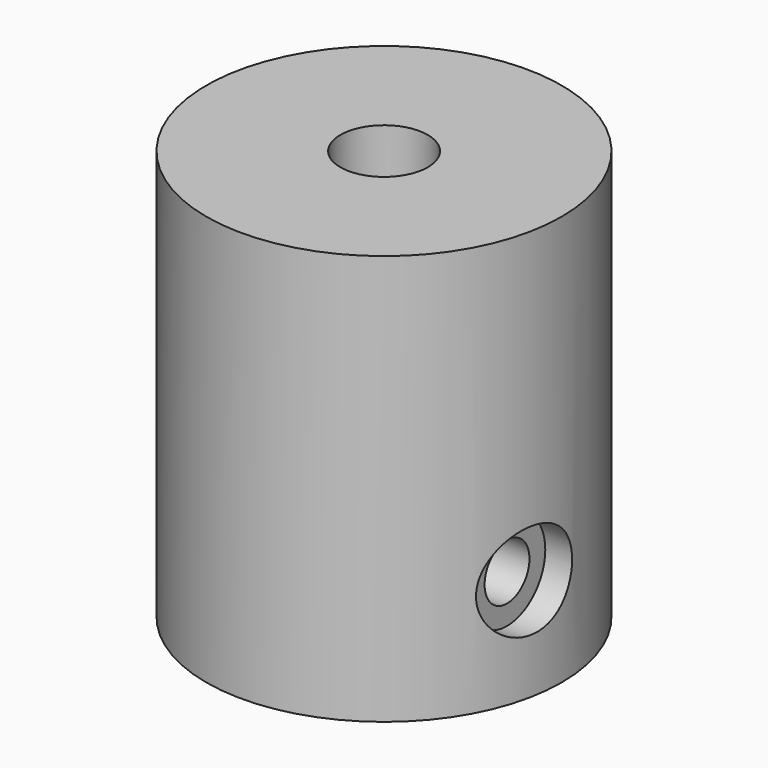
from build123d import *

# Parameters (mm, degrees)
F0_R      = 13
F5_DEPTH  = 15
F4_R      = 8
F6_DEPTH  = 15
F3_R      = 3.2
F8_DEPTH  = 4
F9_DEPTH  = 11
F10_R     = 2.05
F11_DEPTH = 15
F12_R     = 1.5
F13_DEPTH = 25
F15_R     = 3.5
F16_DEPTH = 5
F19_DEPTH = 3


with BuildPart() as f5:
    # F0 (on Top) → F5 (new body, symmetric)
    with BuildSketch(Plane.XY):
        Circle(F0_R)
    extrude(amount=F5_DEPTH, both=True)

    # F4 (on offset) → F6 (cut)
    with BuildSketch(Plane.XY.offset(-15)):
        Circle(F4_R)
    extrude(amount=F6_DEPTH, mode=Mode.SUBTRACT)

    # F3 (on offset) → F8 (cut)
    with BuildSketch(Plane.XY.offset(15)):
        with Locations((0.0063437128, 0)):
            Circle(F3_R)
    extrude(amount=-F8_DEPTH, mode=Mode.SUBTRACT)

    # F7 (on Top) → F9 (cut)
    with BuildSketch(Plane.XY):
        with BuildLine():
            Line((1.8168599408, 2.625), (-1.8433996128, 2.625))
            ThreePointArc((-1.8433996128, 2.625), (-0.013269836, -3.2022189551), (1.8168599408, 2.625))
        make_face()
    extrude(amount=F9_DEPTH, mode=Mode.SUBTRACT)

    # F10 (on Right) → F11 (cut, symmetric)
    with BuildSketch(Plane.YZ):
        with Locations((-2.5, -7.5)):
            Circle(F10_R)
    extrude(amount=F11_DEPTH, both=True, mode=Mode.SUBTRACT)

    # F12 (on Front) → F13 (cut)
    with BuildSketch(Plane.XZ):
        with Locations((0, 7)):
            Circle(F12_R)
    extrude(amount=-F13_DEPTH, mode=Mode.SUBTRACT)

    # F15 (on offset) → F16 (cut)
    with BuildSketch(Plane.YZ.offset(11)):
        with Locations((-2.5, -7.5)):
            Circle(F15_R)
    extrude(amount=F16_DEPTH, mode=Mode.SUBTRACT)

    # F18 (on offset) → F19 (cut)
    with BuildSketch(Plane.YZ.offset(-12)):
        Polygon((-5.9460342998, -5.8984858401), (-5.6099690969, -9.683596166), (-2.1639347971, -11.2851103259), (0.9460342998, -9.1015141599), (0.6099690969, -5.316403834), (-2.8360652029, -3.7148896741), align=None)
    extrude(amount=-F19_DEPTH, mode=Mode.SUBTRACT)


solid = f5.part
